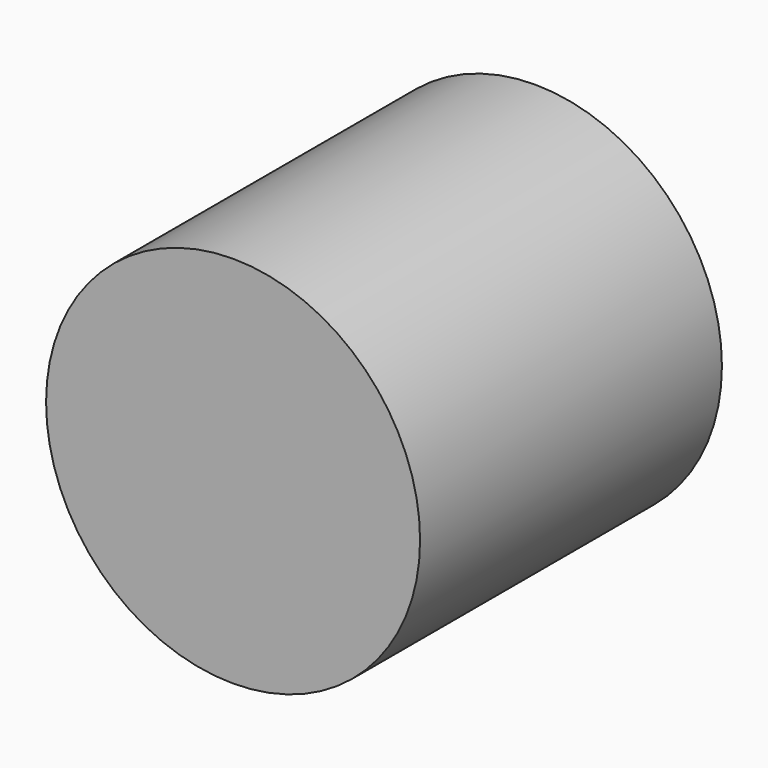
from build123d import *

# Parameters (mm, degrees)
F0_R      = 50.354649
F1_DEPTH  = 50.8
F3_DEPTH  = 25.4
F4_DEPTH  = 25.4
F1_FACE_R = 50.354649
F5_DEPTH  = 50.8


with BuildPart() as f1:
    # F0 (on Front) → F1 (new body)
    with BuildSketch(Plane.XZ):
        Circle(F0_R)
    extrude(amount=F1_DEPTH)

    # F2 (on Front) → F3 (join)
    with BuildSketch(Plane.XZ):
        Polygon((0, 0), (-25.05855, 43.402681), (-50.1171, 0), align=None)
        Polygon((25.05855, 43.402681), (-25.05855, 43.402681), (0, 0), align=None)
        Polygon((50.1171, 0), (25.05855, 43.402681), (0, 0), align=None)
        Polygon((0, 0), (-50.1171, 0), (-25.05855, -43.402681), align=None)
        Polygon((50.1171, 0), (0, 0), (25.05855, -43.402681), align=None)
        Polygon((25.05855, -43.402681), (0, 0), (-25.05855, -43.402681), align=None)
    extrude(amount=F3_DEPTH)

    # F2 (on Front) → F4 (join)
    with BuildSketch(Plane.XZ):
        Polygon((0, 0), (-25.05855, 43.402681), (-50.1171, 0), align=None)
        Polygon((25.05855, 43.402681), (-25.05855, 43.402681), (0, 0), align=None)
        Polygon((50.1171, 0), (25.05855, 43.402681), (0, 0), align=None)
        Polygon((0, 0), (-50.1171, 0), (-25.05855, -43.402681), align=None)
        Polygon((50.1171, 0), (0, 0), (25.05855, -43.402681), align=None)
        Polygon((25.05855, -43.402681), (0, 0), (-25.05855, -43.402681), align=None)
    extrude(amount=F4_DEPTH)

    # F1_face (on face) → F5 (join)
    with BuildSketch(Plane.XZ.offset(50.8)):
        Circle(F1_FACE_R)
    extrude(amount=F5_DEPTH)


solid = f1.part
